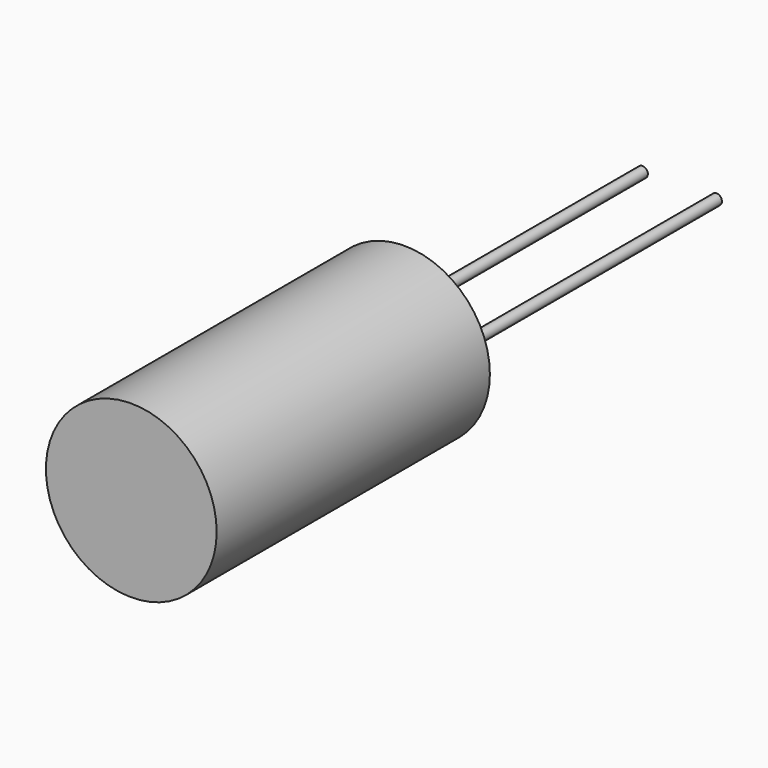
from build123d import *

# Parameters (mm, degrees)
F0_R     = 3.175
F1_DEPTH = 12.7
F2_R     = 0.198438
F3_DEPTH = 12.7


with BuildPart() as f1:
    # F0 (on Front) → F1 (new body)
    with BuildSketch(Plane.XZ):
        Circle(F0_R)
    extrude(amount=F1_DEPTH)


with BuildPart() as f3:
    # F2 (on face) → F3 (new body)
    with BuildSketch(Plane(origin=(0, 0, 0), x_dir=(-1, 0, 0), z_dir=(0, 1, 0))):
        with Locations((1.308136, 0)):
            Circle(F2_R)
        with Locations((-1.44632, 0)):
            Circle(F2_R)
    extrude(amount=F3_DEPTH)


solid = Compound([f1.part, f3.part])
